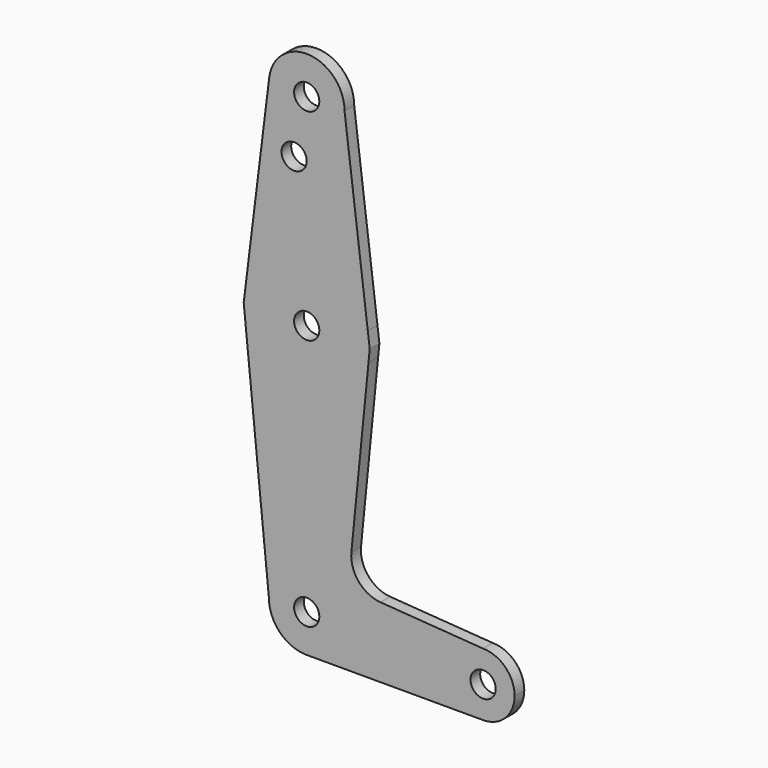
from build123d import *

# Parameters (mm, degrees)
F0_R     = 3.175
F1_DEPTH = 3.048
F2_R     = 7.9502


with BuildPart() as f1:
    # F0 (on Front) → F1 (new body)
    with BuildSketch(Plane.XZ):
        with BuildLine():
            Line((-9.4530967593, 115.4681552373), (-15.3974543628, 67.3644565138))
            ThreePointArc((-15.3974543628, 67.3644565138), (-0.0222962484, 79.3749843426), (15.3865384615, 67.4076923077))
            Line((15.3865384615, 67.4076923077), (9.525, 114.3))
            ThreePointArc((9.525, 114.3), (-0.5851830343, 104.7929928044), (-9.4530967593, 115.4681552373))
        make_face()
        with Locations((-3.175, 100.0252)):
            Circle(F0_R, mode=Mode.SUBTRACT)
        with BuildLine():
            ThreePointArc((9.525, 114.3), (0.5851830343, 123.8070071956), (-9.4530967593, 115.4681552373))
            ThreePointArc((-9.4530967593, 115.4681552373), (-0.5851830343, 104.7929928044), (9.525, 114.3))
        make_face()
        with Locations((0, 114.3)):
            Circle(F0_R, mode=Mode.SUBTRACT)
        with BuildLine():
            Line((-15.875, 63.5), (-15.5606435644, 60.3564356436))
            ThreePointArc((-15.5606435644, 60.3564356436), (0.0115875772, 47.625004229), (15.5652161214, 60.3791552277))
            Line((15.5652161214, 60.3791552277), (15.875, 63.5))
            Line((15.875, 63.5), (15.3865384615, 67.4076923077))
            ThreePointArc((15.3865384615, 67.4076923077), (-0.0222962484, 79.3749843426), (-15.3974543628, 67.3644565138))
            Line((-15.3974543628, 67.3644565138), (-15.875, 63.5))
        make_face()
        with BuildLine():
            ThreePointArc((0, 66.675), (2.2450640303, 65.7450640303), (3.175, 63.5))
            ThreePointArc((3.175, 63.5), (-2.2450640303, 61.2549359697), (0, 66.675))
        make_face(mode=Mode.SUBTRACT)
        with BuildLine():
            ThreePointArc((-9.525, 0), (-6.4889049379, 6.9727855056), (0.68386881, 9.5004183303))
            Line((0.68386881, 9.5004183303), (10.4451024606, 8.7977752457))
            Line((10.4451024606, 8.7977752457), (15.5652161214, 60.3791552277))
            ThreePointArc((15.5652161214, 60.3791552277), (0.0115875772, 47.625004229), (-15.5606435644, 60.3564356436))
            Line((-15.5606435644, 60.3564356436), (-9.525, 0))
        make_face()
        with BuildLine():
            Line((10.4451024606, 8.7977752457), (9.4784185161, -0.940854629))
            ThreePointArc((9.4784185161, -0.940854629), (6.3939027463, -7.0600023138), (0, -9.525))
            Line((0, -9.525), (44.45, -9.525))
            ThreePointArc((44.45, -9.525), (36.5125, -1.5875), (44.45, 6.35))
            Line((44.45, 6.35), (10.4451024606, 8.7977752457))
        make_face()
        with BuildLine():
            ThreePointArc((52.3875, -1.5875), (50.0626600757, 4.0251600757), (44.45, 6.35))
            ThreePointArc((44.45, 6.35), (36.5125, -1.5875), (44.45, -9.525))
            ThreePointArc((44.45, -9.525), (50.0626600757, -7.2001600757), (52.3875, -1.5875))
        make_face()
        with Locations((44.45, -1.5875)):
            Circle(F0_R, mode=Mode.SUBTRACT)
        with BuildLine():
            ThreePointArc((9.4784185161, -0.940854629), (9.5133475014, -0.4710035211), (9.525, 0))
            ThreePointArc((9.525, 0), (6.9727855056, 6.4889049379), (0.68386881, 9.5004183303))
            ThreePointArc((0.68386881, 9.5004183303), (-6.4889049379, 6.9727855056), (-9.525, 0))
            ThreePointArc((-9.525, 0), (-6.7351920908, -6.7351920908), (0, -9.525))
            ThreePointArc((0, -9.525), (6.3939027463, -7.0600023138), (9.4784185161, -0.940854629))
        make_face()
        Circle(F0_R, mode=Mode.SUBTRACT)
        with BuildLine():
            ThreePointArc((0.68386881, 9.5004183303), (6.9727855056, 6.4889049379), (9.525, 0))
            ThreePointArc((9.525, 0), (9.5133475014, -0.4710035211), (9.4784185161, -0.940854629))
            Line((9.4784185161, -0.940854629), (10.4451024606, 8.7977752457))
            Line((10.4451024606, 8.7977752457), (0.68386881, 9.5004183303))
        make_face()
    extrude(amount=-F1_DEPTH)

    # F2
    f2_edges = [f1.edges().sort_by_distance(p)[0] for p in [
        (10.445102, 1.524, 8.797775),
    ]]
    fillet(f2_edges, radius=F2_R)


solid = f1.part
